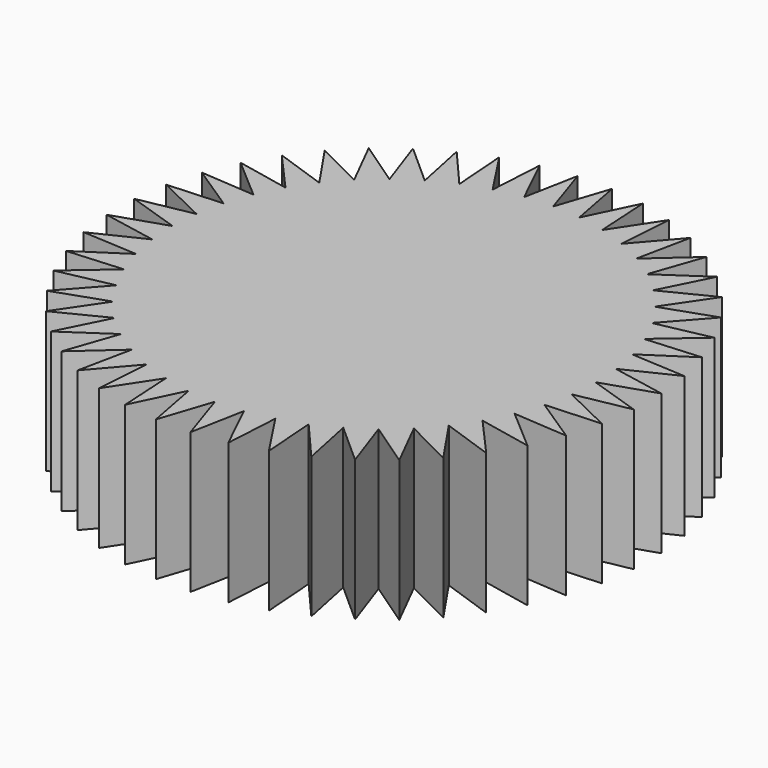
from build123d import *

# Parameters (mm, degrees)
PAD_DEPTH          = 8
POLARPATTERN_COUNT = 48


with BuildPart() as part:
    # Sketch → Pad (new body)
    with BuildSketch(Plane.XY):
        with BuildLine():
            ThreePointArc((0, 12.0248747975), (-0.7864644404, -11.9991286175), (1.5695611192, 11.9220003266))
            Line((1.5695611192, 11.9220003266), (0.982673828, 14.9927053872))
            Line((0, 12.0248747975), (0.982673828, 14.9927053872))
        make_face()
    extrude(amount=PAD_DEPTH)

    # PolarPattern: part ×48 about axis
    polarpattern_axis = Axis((0, 0, 0), (0, 0, 1))


with BuildPart() as part_1:
    add(part.part)
    for i in range(1, POLARPATTERN_COUNT):
        add(part.part.rotate(polarpattern_axis, i * 360 / POLARPATTERN_COUNT))


solid = part_1.part
